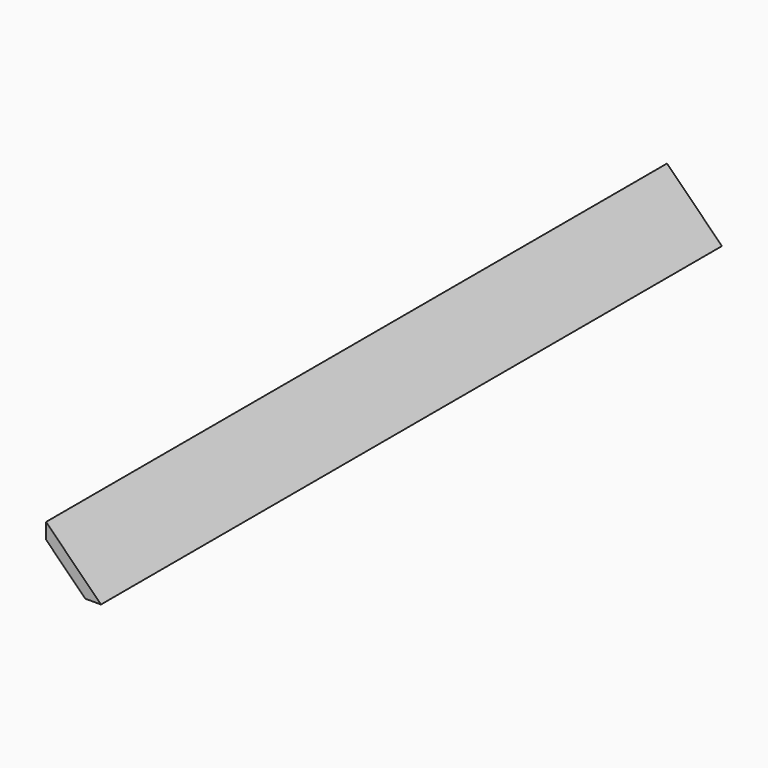
from build123d import *

# Parameters (mm, degrees)
F1_DEPTH = 280
F3_DEPTH = 287
F4_T     = -1.2


with BuildPart() as f1:
    # F0 (on Front) → F1 (new body)
    with BuildSketch(Plane.XZ):
        Polygon((-9.899495, 9.899495), (-9.899495, -9.899495), (9.899495, -9.899495), align=None)
    extrude(amount=F1_DEPTH)

    # F2 (on face) → F3 (cut)
    with BuildSketch(Plane(origin=(0, 0, 0), x_dir=(-1, 0, 0), z_dir=(0, 1, 0))):
        Polygon((9.899495, 4.242641), (-4.242641, -9.899495), (9.899495, -9.899495), align=None)
    extrude(amount=-F3_DEPTH, mode=Mode.SUBTRACT)

    # F4
    f4_openings = [f1.faces().sort_by_distance(p)[0] for p in [
        (-2.828427, -140, -2.828427),
    ]]
    offset(amount=F4_T, openings=f4_openings)


solid = f1.part
